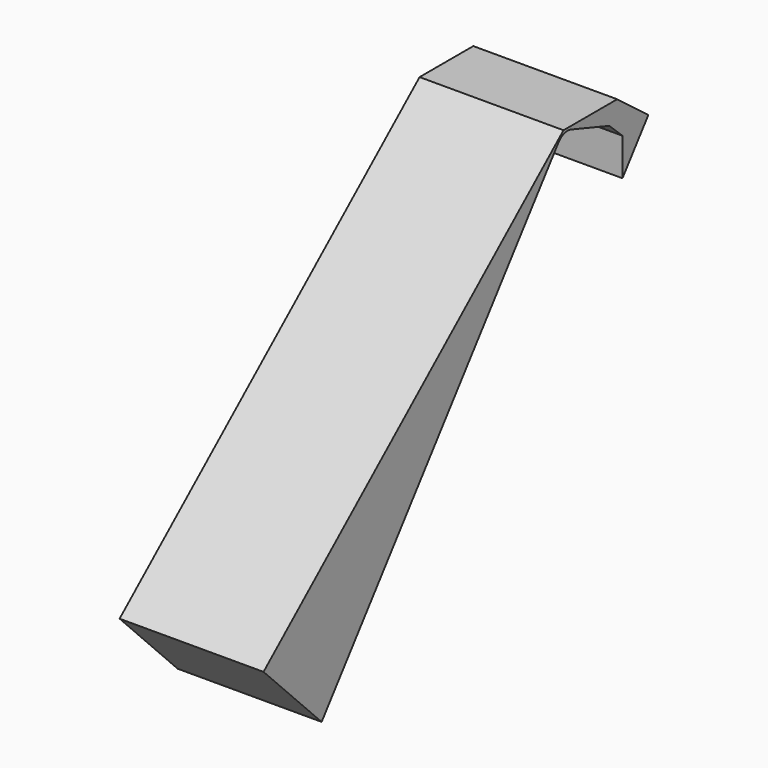
from build123d import *

# Parameters (mm, degrees)
F1_DEPTH = 25.4
F2_DEPTH = 25.4


with BuildPart() as f1:
    # F0 (on Right) → F1 (new body)
    with BuildSketch(Plane.YZ):
        with BuildLine():
            Line((0, 30.769825), (-66.17184, -26.477806))
            Line((-66.17184, -26.477806), (-53.354017, -39.466064))
            Line((-53.354017, -39.466064), (-1.105494, 29.314539))
            ThreePointArc((-1.105494, 29.314539), (0.172671, 30.206547), (1.731158, 30.184106))
            Line((1.731158, 30.184106), (10.111916, 27.348567))
            Line((10.111916, 27.348567), (13.011397, 24.621211))
            Line((13.011397, 24.621211), (13.011397, 18.018662))
            Line((13.011397, 18.018662), (18.729026, 25.545419))
            Line((18.729026, 25.545419), (11.851553, 30.769825))
            Line((11.851553, 30.769825), (0, 30.769825))
        make_face()
    extrude(amount=F1_DEPTH)


with BuildPart() as f2:
    # F0 (on Right) → F2 (new body)
    with BuildSketch(Plane.YZ):
        with BuildLine():
            Line((0, 30.769825), (-66.17184, -26.477806))
            Line((-66.17184, -26.477806), (-53.354017, -39.466064))
            Line((-53.354017, -39.466064), (-1.105494, 29.314539))
            ThreePointArc((-1.105494, 29.314539), (0.172671, 30.206547), (1.731158, 30.184106))
            Line((1.731158, 30.184106), (10.111916, 27.348567))
            Line((10.111916, 27.348567), (13.011397, 24.621211))
            Line((13.011397, 24.621211), (13.011397, 18.018662))
            Line((13.011397, 18.018662), (18.729026, 25.545419))
            Line((18.729026, 25.545419), (11.851553, 30.769825))
            Line((11.851553, 30.769825), (0, 30.769825))
        make_face()
    extrude(amount=F2_DEPTH)


solid = Compound([f1.part, f2.part])
